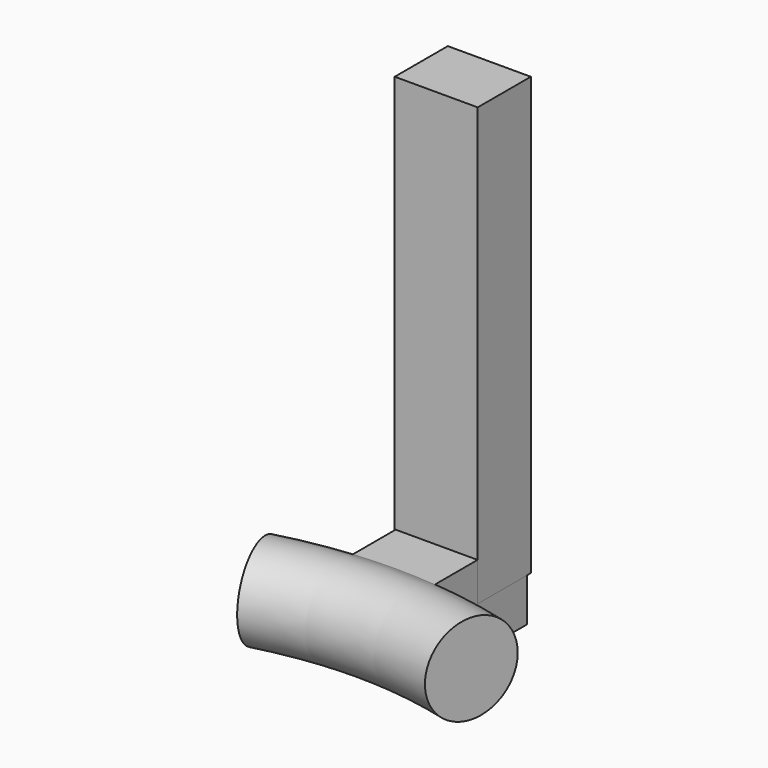
from build123d import *

# Parameters (mm, degrees)
F0_R          = 8.2355585824
F1_ANGLE_BACK = 15
F1_ANGLE      = 30
F2_W          = 15
F2_H          = 15
F3_DEPTH      = 25
F4_W          = 15.1891945861
F4_H          = 12.1442461386
F5_DEPTH      = 80


with BuildPart() as f1:
    # F0 (on Right) → F1 (revolve)
    with BuildSketch(Plane.YZ, mode=Mode.PRIVATE) as f1_sk:
        Circle(F0_R)
    revolve(f1_sk.sketch.rotate(Axis((0, -74.6255367994, -4.2161336169), (0, 0, -1)), -F1_ANGLE_BACK), axis=Axis((0, -74.6255367994, -4.2161336169), (0, 0, -1)), revolution_arc=F1_ANGLE)

    # F2 (on Front) → F3 (join)
    with BuildSketch(Plane.XZ):
        with Locations((0, -0.4352101311)):
            Rectangle(F2_W, F2_H)
    extrude(amount=-F3_DEPTH)

    # F4 (on Top) → F5 (join)
    with BuildSketch(Plane.XY):
        with Locations((-0.0722266268, 19.7329348885)):
            Rectangle(F4_W, F4_H)
    extrude(amount=F5_DEPTH)


solid = f1.part
